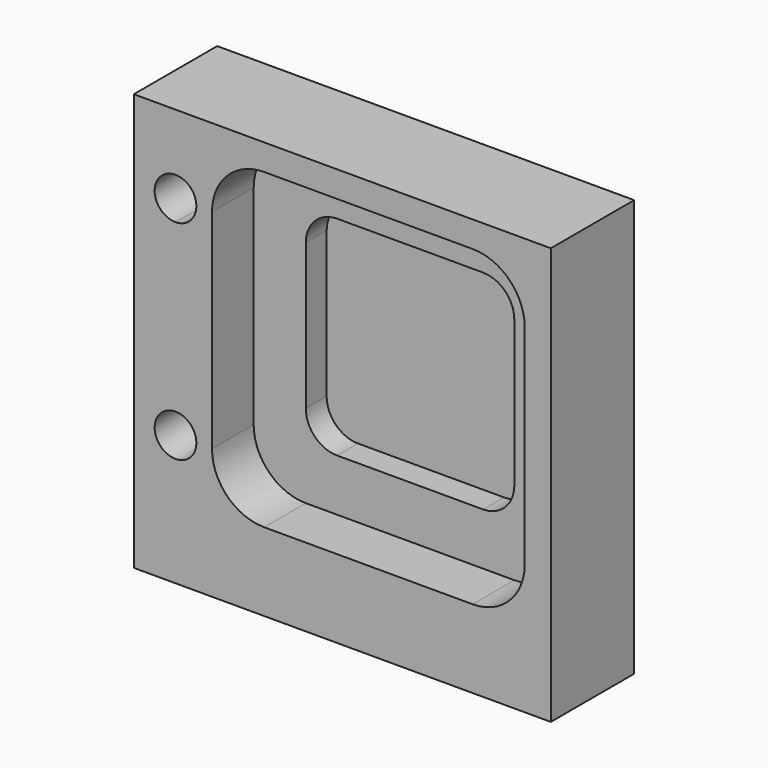
from build123d import *

# Parameters (mm, degrees)
F1_DEPTH = 5
F2_DEPTH = 10
F0_W     = 80
F0_H     = 80
F3_DEPTH = 20
F4_DEPTH = 5


with BuildPart() as f1:
    # F0 (on Front) → F1 (new body)
    with BuildSketch(Plane.XZ):
        with BuildLine():
            Line((-21, 65), (-49, 65))
            ThreePointArc((-49, 65), (-53.242641, 63.242641), (-55, 59))
            Line((-55, 59), (-55, 31))
            ThreePointArc((-55, 31), (-53.242641, 26.757359), (-49, 25))
            Line((-49, 25), (-21, 25))
            ThreePointArc((-21, 25), (-16.757359, 26.757359), (-15, 31))
            Line((-15, 31), (-15, 59))
            ThreePointArc((-15, 59), (-16.757359, 63.242641), (-21, 65))
        make_face()
    extrude(amount=F1_DEPTH)

    # F0 (on Front) → F2 (join)
    with BuildSketch(Plane.XZ):
        with BuildLine():
            Line((-15, 75), (-55, 75))
            ThreePointArc((-55, 75), (-62.071068, 72.071068), (-65, 65))
            Line((-65, 65), (-65, 25))
            ThreePointArc((-65, 25), (-62.071068, 17.928932), (-55, 15))
            Line((-55, 15), (-15, 15))
            ThreePointArc((-15, 15), (-7.928932, 17.928932), (-5, 25))
            Line((-5, 25), (-5, 65))
            ThreePointArc((-5, 65), (-7.928932, 72.071068), (-15, 75))
        make_face()
        with BuildLine():
            ThreePointArc((-55, 59), (-53.242641, 63.242641), (-49, 65))
            Line((-49, 65), (-21, 65))
            ThreePointArc((-21, 65), (-16.757359, 63.242641), (-15, 59))
            Line((-15, 59), (-15, 31))
            ThreePointArc((-15, 31), (-16.757359, 26.757359), (-21, 25))
            Line((-21, 25), (-49, 25))
            ThreePointArc((-49, 25), (-53.242641, 26.757359), (-55, 31))
            Line((-55, 31), (-55, 59))
        make_face(mode=Mode.SUBTRACT)
    extrude(amount=F2_DEPTH)

    # F0 (on Front) → F3 (join)
    with BuildSketch(Plane.XZ):
        with Locations((-40, 40)):
            Rectangle(F0_W, F0_H)
        with BuildLine():
            ThreePointArc((-68, 25), (-74.828427, 22.171573), (-72, 29))
            ThreePointArc((-72, 29), (-69.171573, 27.828427), (-68, 25))
        make_face(mode=Mode.SUBTRACT)
        with BuildLine():
            ThreePointArc((-72, 61), (-74.828427, 67.828427), (-68, 65))
            ThreePointArc((-68, 65), (-69.171573, 62.171573), (-72, 61))
        make_face(mode=Mode.SUBTRACT)
        with BuildLine():
            ThreePointArc((-65, 65), (-62.071068, 72.071068), (-55, 75))
            Line((-55, 75), (-15, 75))
            ThreePointArc((-15, 75), (-7.928932, 72.071068), (-5, 65))
            Line((-5, 65), (-5, 25))
            ThreePointArc((-5, 25), (-7.928932, 17.928932), (-15, 15))
            Line((-15, 15), (-55, 15))
            ThreePointArc((-55, 15), (-62.071068, 17.928932), (-65, 25))
            Line((-65, 25), (-65, 65))
        make_face(mode=Mode.SUBTRACT)
    extrude(amount=F3_DEPTH)

    # F0 (on Front) → F4 (join)
    with BuildSketch(Plane.XZ):
        with BuildLine():
            ThreePointArc((-72, 61), (-69.171573, 62.171573), (-68, 65))
            ThreePointArc((-68, 65), (-74.828427, 67.828427), (-72, 61))
        make_face()
        with BuildLine():
            ThreePointArc((-68, 25), (-69.171573, 27.828427), (-72, 29))
            ThreePointArc((-72, 29), (-74.828427, 22.171573), (-68, 25))
        make_face()
    extrude(amount=F4_DEPTH)


solid = f1.part
